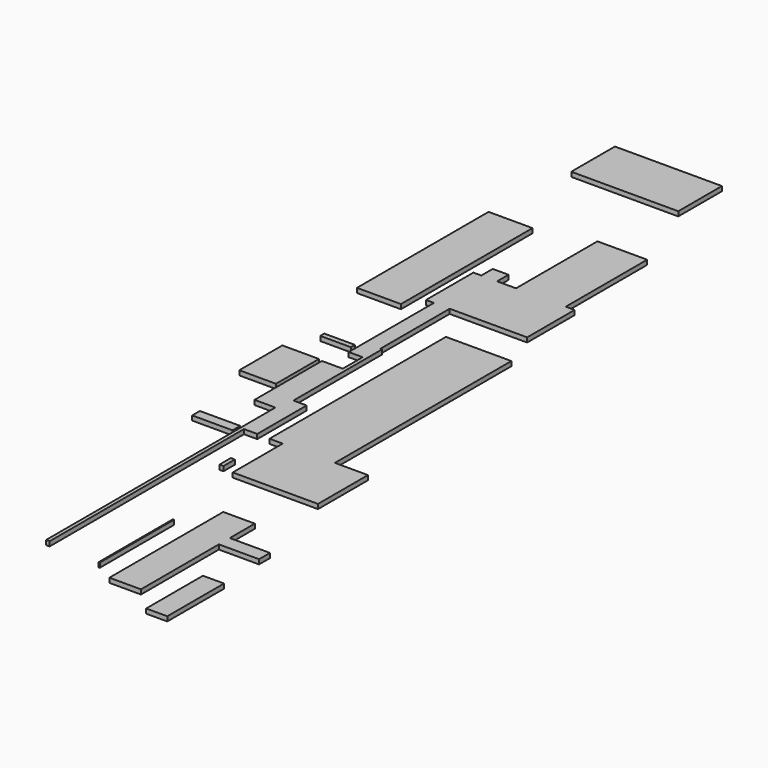
from build123d import *

# Parameters (mm, degrees)
F0_W          = 44.2409515381
F0_H          = 156.4252376556
F1_DEPTH      = 25.399999693
F1_DEPTH_BACK = 25.4
F0_W_2        = 22.5378274918
F0_H_2        = 731.0734987259
F0_H_3        = 199.3902921677
F0_W_3        = 146.3996171951
F0_H_4        = 682.2904348373
F0_W_4        = 39.233148098
F0_H_5        = 2684.4458580017
F0_W_5        = 20.3537940979
F0_H_6        = 218.7442779541
F0_W_6        = 174.3287444115
F0_H_7        = 655.4131507874
F0_W_7        = 87.7292752266
F0_H_8        = 157.6430797577
F0_W_8        = 549.5787858963
F0_H_9        = 11.6560459137
F0_H_10       = 1124.5892047882
F0_W_9        = 1182.5087666512
F0_H_11       = 602.7357578278
F0_W_10       = 485.9105348587
F0_H_12       = 1817.6312446594
F0_W_11       = 337.9504084587
F0_H_13       = 55.5500984192
F0_W_12       = 405.1321148872
F0_H_14       = 594.0616130829
F0_W_13       = 445.6715583801
F0_H_15       = 105.9410572052
F0_W_14       = 233.0176830292
F0_H_16       = 783.86926651
F0_W_15       = 206.1629295349
F0_H_17       = 150.9690284729
F0_W_16       = 444.1845417023
F0_W_17       = 13.18359375
F0_H_18       = 1023.7331390381


with BuildPart() as f1:
    # F0 (on Top) → F1 (new body, two sides)
    with BuildSketch(Plane.XY) as f1_sk:
        with Locations((997.4524974823, -3005.4203271866)):
            Rectangle(F0_W, F0_H)
    extrude(amount=F1_DEPTH)
    extrude(f1_sk.sketch, amount=-F1_DEPTH_BACK)


with BuildPart() as f1b:
    # F0 (on Top) → F1, piece 2 (new body, two sides)
    with BuildSketch(Plane.XY) as f1_2_sk:
        with Locations((697.9529857635, -1385.5519890785)):
            Rectangle(F0_W_2, F0_H_2)
        with Locations((697.9529857635, -1850.7838845253)):
            Rectangle(F0_W_2, F0_H_3)
        Polygon((686.6840720177, -1950.4790306091), (686.6840720177, -1751.0887384415), (686.6840720177, -1020.0152397156), (455.8762907982, -1020.0152397156), (455.8762907982, -1950.4790306091), align=None)
        Polygon((709.2218995094, -1020.0152397156), (709.2218995094, -1751.0887384415), (725.9172201157, -1751.0887384415), (725.9172201157, -526.4091491699), (707.0378661156, -526.4091491699), (707.0378661156, -745.153427124), (686.6840720177, -745.153427124), (686.6840720177, -1020.0152397156), align=None)
        Polygon((725.9172201157, -1751.0887384415), (709.2218995094, -1751.0887384415), (709.2218995094, -1950.4790306091), (686.6840720177, -1950.4790306091), (686.6840720177, -2433.3791732788), (725.9172201157, -2433.3791732788), align=None)
        with Locations((799.1170287132, -2092.2339558601)):
            Rectangle(F0_W_3, F0_H_4)
        with Locations((706.3006460667, -3775.6021022797)):
            Rectangle(F0_W_4, F0_H_5)
        Polygon((532.7091217041, -745.153427124), (686.6840720177, -745.153427124), (686.6840720177, -526.4091491699), (707.0378661156, -526.4091491699), (707.0378661156, 430.6876659393), (532.7091217041, 430.6876659393), align=None)
        with Locations((696.8609690666, -635.781288147)):
            Rectangle(F0_W_5, F0_H_6)
        with Locations((619.8734939098, 758.394241333)):
            Rectangle(F0_W_6, F0_H_7)
        with Locations((488.8444840908, 758.394241333)):
            Rectangle(F0_W_7, F0_H_7)
        Polygon((707.0378661156, 1086.1008167267), (707.0378661156, 430.6876659393), (1563.038110733, 430.6876659393), (1563.038110733, 1086.1008167267), (1465.4121398926, 1086.1008167267), (1465.4121398926, 1074.444770813), (915.8333539963, 1074.444770813), (915.8333539963, 1086.1008167267), align=None)
        with Locations((619.8734939098, 1164.9223566055)):
            Rectangle(F0_W_6, F0_H_8)
        with Locations((1190.6227469444, 1080.2727937698)):
            Rectangle(F0_W_8, F0_H_9)
        with Locations((1190.6227469444, 1648.3954191208)):
            Rectangle(F0_W_8, F0_H_10)
    extrude(amount=F1_DEPTH)
    extrude(f1_2_sk.sketch, amount=-F1_DEPTH_BACK)


with BuildPart() as f1c:
    # F0 (on Top) → F1, piece 3 (new body, two sides)
    with BuildSketch(Plane.XY) as f1_3_sk:
        Polygon((1733.3495616913, 0), (1010.2095603943, 0), (1010.2095603943, -2436.8262290955), (1156.3047170639, -2436.8262290955), (1733.3495616913, -2436.8262290955), align=None)
        Polygon((2098.2656478882, -2436.8262290955), (1733.3495616913, -2436.8262290955), (1156.3047170639, -2436.8262290955), (1156.3047170639, -3126.8546581268), (2098.2656478882, -3126.8546581268), align=None)
    extrude(amount=F1_DEPTH)
    extrude(f1_3_sk.sketch, amount=-F1_DEPTH_BACK)


with BuildPart() as f1d:
    # F0 (on Top) → F1, piece 4 (new body, two sides)
    with BuildSketch(Plane.XY) as f1_4_sk:
        with Locations((518.150895834, 3386.6211175919)):
            Rectangle(F0_W_9, F0_H_11)
    extrude(amount=F1_DEPTH)
    extrude(f1_4_sk.sketch, amount=-F1_DEPTH_BACK)


with BuildPart() as f1e:
    # F0 (on Top) → F1, piece 5 (new body, two sides)
    with BuildSketch(Plane.XY) as f1_5_sk:
        with Locations((81.3304185867, 1144.948720932)):
            Rectangle(F0_W_10, F0_H_12)
    extrude(amount=F1_DEPTH)
    extrude(f1_5_sk.sketch, amount=-F1_DEPTH_BACK)


with BuildPart() as f1f:
    # F0 (on Top) → F1, piece 6 (new body, two sides)
    with BuildSketch(Plane.XY) as f1_6_sk:
        with Locations((321.1685121059, -635.0152492523)):
            Rectangle(F0_W_11, F0_H_13)
    extrude(amount=F1_DEPTH)
    extrude(f1_6_sk.sketch, amount=-F1_DEPTH_BACK)


with BuildPart() as f1g:
    # F0 (on Top) → F1, piece 7 (new body, two sides)
    with BuildSketch(Plane.XY) as f1_7_sk:
        with Locations((210.3101909161, -1303.4030199051)):
            Rectangle(F0_W_12, F0_H_14)
    extrude(amount=F1_DEPTH)
    extrude(f1_7_sk.sketch, amount=-F1_DEPTH_BACK)


with BuildPart() as f1h:
    # F0 (on Top) → F1, piece 8 (new body, two sides)
    with BuildSketch(Plane.XY) as f1_8_sk:
        with Locations((440.309882164, -2460.4402780533)):
            Rectangle(F0_W_13, F0_H_15)
    extrude(amount=F1_DEPTH)
    extrude(f1_8_sk.sketch, amount=-F1_DEPTH_BACK)


with BuildPart() as f1i:
    # F0 (on Top) → F1, piece 9 (new body, two sides)
    with BuildSketch(Plane.XY) as f1_9_sk:
        with Locations((2277.6950597763, -5186.5603923798)):
            Rectangle(F0_W_14, F0_H_16)
    extrude(amount=F1_DEPTH)
    extrude(f1_9_sk.sketch, amount=-F1_DEPTH_BACK)


with BuildPart() as f1j:
    # F0 (on Top) → F1, piece 10 (new body, two sides)
    with BuildSketch(Plane.XY) as f1_10_sk:
        Polygon((1553.8001060486, -5327.2461891174), (1902.4512767792, -5327.2461891174), (1902.4512767792, -4251.2474060059), (1696.2883472443, -4251.2474060059), (1696.2883472443, -4100.278377533), (1902.4512767792, -4100.278377533), (1902.4512767792, -3754.7616958618), (1553.8001060486, -3754.7616958618), align=None)
        with Locations((1799.3698120117, -4175.7628917694)):
            Rectangle(F0_W_15, F0_H_17)
        with Locations((2124.5435476303, -4175.7628917694)):
            Rectangle(F0_W_16, F0_H_17)
    extrude(amount=F1_DEPTH)
    extrude(f1_10_sk.sketch, amount=-F1_DEPTH_BACK)


with BuildPart() as f1k:
    # F0 (on Top) → F1, piece 11 (new body, two sides)
    with BuildSketch(Plane.XY) as f1_11_sk:
        with Locations((1306.4863681793, -4646.61693573)):
            Rectangle(F0_W_17, F0_H_18)
    extrude(amount=F1_DEPTH)
    extrude(f1_11_sk.sketch, amount=-F1_DEPTH_BACK)


solid = Compound([f1.part, f1b.part, f1c.part, f1d.part, f1e.part, f1f.part, f1g.part, f1h.part, f1i.part, f1j.part, f1k.part])
